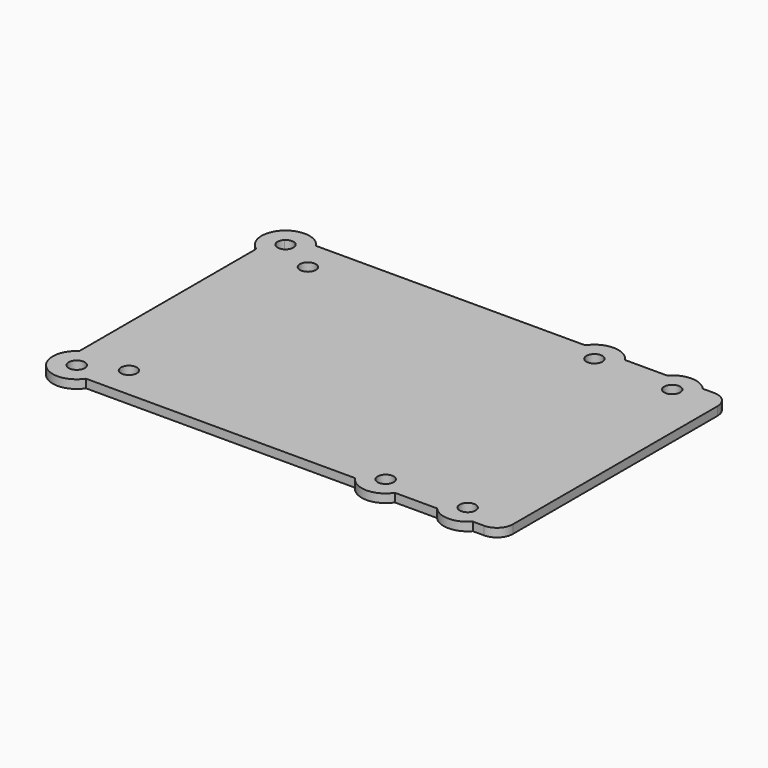
from build123d import *

# Parameters (mm, degrees)
F1_DEPTH = 1.6
F2_R     = 1.5
F3_DEPTH = 1.6
F4_R     = 1.5
F5_DEPTH = 1.6
F6_R     = 4.5
F6_R_2   = 1.5
F7_DEPTH = 1.6


with BuildPart() as f1:
    # F0 (on Top) → F1 (new body)
    with BuildSketch(Plane.XY):
        with BuildLine():
            Line((-39, -27), (39, -27))
            ThreePointArc((39, -27), (41.12132, -26.12132), (42, -24))
            Line((42, -24), (42, 24))
            ThreePointArc((42, 24), (41.12132, 26.12132), (39, 27))
            Line((39, 27), (-39, 27))
            ThreePointArc((-39, 27), (-41.12132, 26.12132), (-42, 24))
            Line((-42, 24), (-42, -24))
            ThreePointArc((-42, -24), (-41.12132, -26.12132), (-39, -27))
        make_face()
    extrude(amount=F1_DEPTH)

    # F2 (on face) → F3 (cut, through all)
    with BuildSketch(Plane.XY.offset(1.6)):
        with BuildLine():
            ThreePointArc((-40.56066, 25.56066), (-40.074025, 23.114181), (-38, 24.5))
            ThreePointArc((-38, 24.5), (-38.925975, 25.885819), (-40.56066, 25.56066))
        make_face()
        with Locations((18.5, 24.5)):
            Circle(F2_R)
        with Locations((18.5, -24.5)):
            Circle(F2_R)
        with Locations((-39.5, -24.5)):
            Circle(F2_R)
    extrude(amount=-F3_DEPTH, mode=Mode.SUBTRACT)

    # F4 (on face) → F5 (cut, through all)
    with BuildSketch(Plane.XY.offset(1.6)):
        with Locations((33.5, 24)):
            Circle(F4_R)
        with Locations((33.5, -24)):
            Circle(F4_R)
        with Locations((-32.5, 21)):
            Circle(F4_R)
        with Locations((-32.5, -21)):
            Circle(F4_R)
    extrude(amount=-F5_DEPTH, mode=Mode.SUBTRACT)

    # F6 (on face) → F7 (join)
    with BuildSketch(Plane.XY.offset(1.6)):
        with Locations((-39.5, 24.5)):
            Circle(F6_R)
        with Locations((-39.5, 24.5)):
            Circle(F6_R_2, mode=Mode.SUBTRACT)
        with Locations((-39.5, -24.5)):
            Circle(F6_R)
        with Locations((-39.5, -24.5)):
            Circle(F6_R_2, mode=Mode.SUBTRACT)
        with Locations((18.5, 24.5)):
            Circle(F6_R)
        with Locations((18.5, 24.5)):
            Circle(F6_R_2, mode=Mode.SUBTRACT)
        with Locations((18.5, -24.5)):
            Circle(F6_R)
        with Locations((18.5, -24.5)):
            Circle(F6_R_2, mode=Mode.SUBTRACT)
        with Locations((33.5, -24)):
            Circle(F6_R)
        with Locations((33.5, -24)):
            Circle(F6_R_2, mode=Mode.SUBTRACT)
        with Locations((33.5, 24)):
            Circle(F6_R)
        with Locations((33.5, 24)):
            Circle(F6_R_2, mode=Mode.SUBTRACT)
    extrude(amount=-F7_DEPTH)


solid = f1.part
